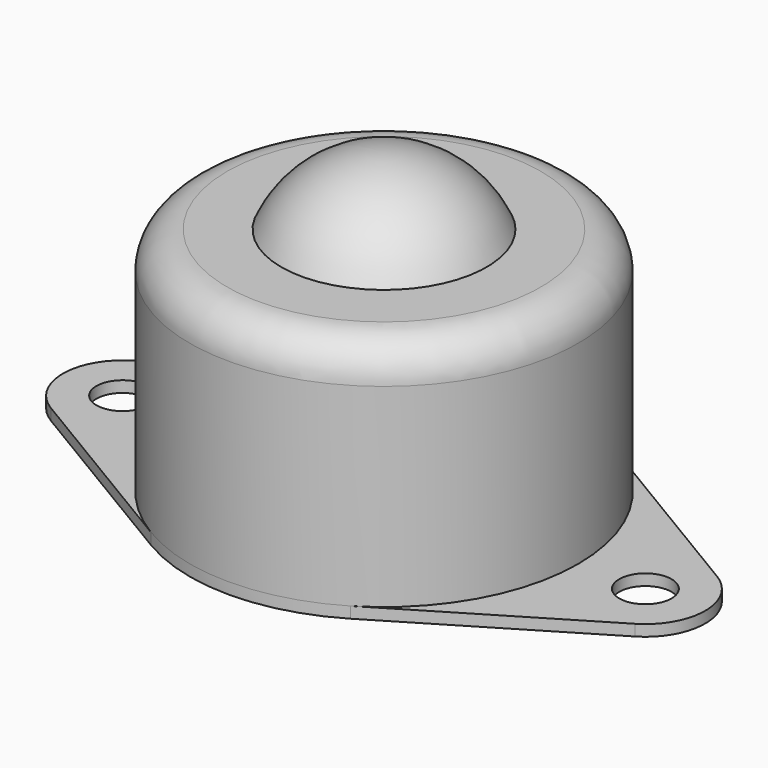
from build123d import *

# Parameters (mm, degrees)
F2_R     = 3.5
F3_DEPTH = 1.5


with BuildPart() as f1:
    # F0 (on Front) → F1 (revolve)
    with BuildSketch(Plane.XZ):
        with BuildLine():
            Line((0, -25), (0, 15))
            ThreePointArc((0, 15), (-8.2158383626, 12.549900398), (-13.7477270849, 6))
            Line((-13.7477270849, 6), (-21, 6))
            ThreePointArc((-21, 6), (-24.5355339059, 4.5355339059), (-26, 1))
            Line((-26, 1), (-26, -23.5))
            Line((-26, -23.5), (-26, -25))
            Line((-26, -25), (0, -25))
        make_face()
    revolve(axis=Axis((0, 0, -5), (0, 0, 1)))

    # F2 (on face) → F3 (join)
    with BuildSketch(Plane(origin=(0, 0, -25), x_dir=(1, 0, 0), z_dir=(0, 0, -1))):
        with BuildLine():
            Line((-39.1142857143, -6.8609513233), (-13.3714285714, -22.2980918009))
            ThreePointArc((-13.3714285714, -22.2980918009), (0, -26), (13.3714285714, -22.2980918009))
            Line((13.3714285714, -22.2980918009), (39.1142857143, -6.8609513233))
            ThreePointArc((39.1142857143, -6.8609513233), (43, 0), (39.1142857143, 6.8609513233))
            Line((39.1142857143, 6.8609513233), (13.3714285714, 22.2980918009))
            ThreePointArc((13.3714285714, 22.2980918009), (0, 26), (-13.3714285714, 22.2980918009))
            Line((-13.3714285714, 22.2980918009), (-39.1142857143, 6.8609513233))
            ThreePointArc((-39.1142857143, 6.8609513233), (-43, 0), (-39.1142857143, -6.8609513233))
        make_face()
        with Locations((-35, 0)):
            Circle(F2_R, mode=Mode.SUBTRACT)
        with Locations((35, 0)):
            Circle(F2_R, mode=Mode.SUBTRACT)
    extrude(amount=F3_DEPTH)


solid = f1.part
